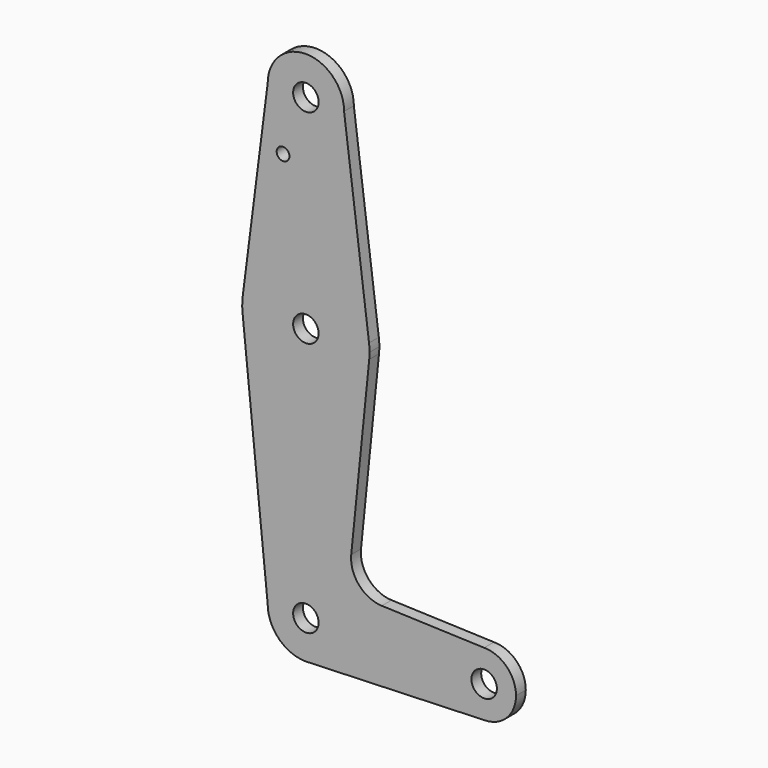
from build123d import *

# Parameters (mm, degrees)
F0_R     = 3.175
F0_R_2   = 1.5875
F1_DEPTH = 3.048


with BuildPart() as f1:
    # F0 (on Front) → F1 (new body)
    with BuildSketch(Plane.XZ):
        with BuildLine():
            ThreePointArc((15.794222, 61.900571), (15.854793, 62.699266), (15.875, 63.5))
            ThreePointArc((15.875, 63.5), (15.843082, 64.506168), (15.747457, 65.508289))
            ThreePointArc((15.747457, 65.508289), (0, 79.375), (-15.747457, 65.508289))
            ThreePointArc((-15.747457, 65.508289), (-15.873666, 63.705763), (-15.794222, 61.900571))
            ThreePointArc((-15.794222, 61.900571), (0, 47.625), (15.794222, 61.900571))
        make_face()
        with Locations((0, 63.5)):
            Circle(F0_R, mode=Mode.SUBTRACT)
        with BuildLine():
            ThreePointArc((-15.747457, 65.508289), (0, 79.375), (15.747457, 65.508289))
            Line((15.747457, 65.508289), (9.525, 114.3))
            ThreePointArc((9.525, 114.3), (0, 104.775), (-9.525, 114.3))
            Line((-9.525, 114.3), (-15.747457, 65.508289))
        make_face()
        with Locations((-5.692047, 100.0252)):
            Circle(F0_R_2, mode=Mode.SUBTRACT)
        with BuildLine():
            Line((11.307933, 17.598866), (15.794222, 61.900571))
            ThreePointArc((15.794222, 61.900571), (0, 47.625), (-15.794222, 61.900571))
            Line((-15.794222, 61.900571), (-9.525753, 0))
            ThreePointArc((-9.525753, 0), (0, 9.525753), (9.525753, 0))
            ThreePointArc((9.525753, 0), (6.971217, -6.491695), (0.677717, -9.501614))
            Line((0.677717, -9.501614), (44.732539, -7.93247))
            ThreePointArc((44.732539, -7.93247), (36.513758, -0.141292), (44.45, 7.9375))
            Line((44.45, 7.9375), (18.932696, 8.852781))
            ThreePointArc((18.932696, 8.852781), (13.225026, 11.573526), (11.307933, 17.598866))
        make_face()
        with BuildLine():
            ThreePointArc((-9.525, 114.3), (0, 104.775), (9.525, 114.3))
            ThreePointArc((9.525, 114.3), (0, 123.825), (-9.525, 114.3))
        make_face()
        with Locations((0, 114.3)):
            Circle(F0_R, mode=Mode.SUBTRACT)
        with BuildLine():
            ThreePointArc((9.525753, 0), (0, 9.525753), (-9.525753, 0))
            ThreePointArc((-9.525753, 0), (-6.735724, -6.735724), (0, -9.525753))
            Line((0, -9.525753), (0.677717, -9.501614))
            ThreePointArc((0.677717, -9.501614), (6.971217, -6.491695), (9.525753, 0))
        make_face()
        Circle(F0_R, mode=Mode.SUBTRACT)
        with BuildLine():
            Line((0.677717, -9.501614), (0, -9.525753))
            ThreePointArc((0, -9.525753), (0.339073, -9.519716), (0.677717, -9.501614))
        make_face()
        with BuildLine():
            ThreePointArc((52.3875, 0), (50.06266, 5.61266), (44.45, 7.9375))
            ThreePointArc((44.45, 7.9375), (36.513758, -0.141292), (44.732539, -7.93247))
            ThreePointArc((44.732539, -7.93247), (50.161679, -5.511862), (52.3875, 0))
        make_face()
        with Locations((44.45, 0)):
            Circle(F0_R, mode=Mode.SUBTRACT)
    extrude(amount=F1_DEPTH)


solid = f1.part
